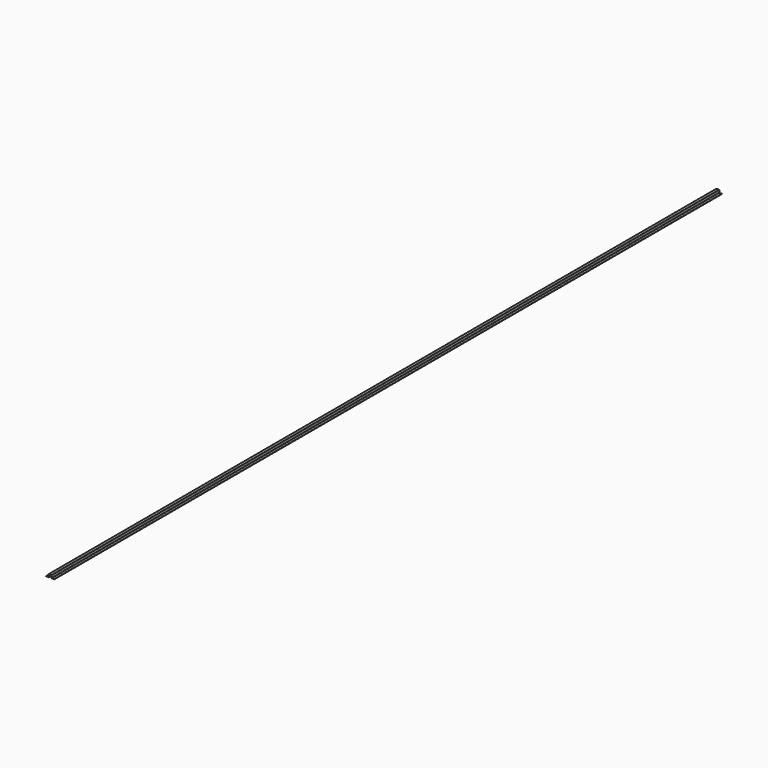
from build123d import *

# Parameters (mm, degrees)
F1_DEPTH = 8967.25


with BuildPart() as f1:
    # F0 (on Front) → F1 (new body)
    with BuildSketch(Plane.XZ):
        with BuildLine():
            Line((0, 3.175), (0, 0))
            Line((0, 0), (29.25, 0))
            ThreePointArc((29.25, 0), (31.017767, 0.732233), (31.75, 2.5))
            Line((31.75, 2.5), (31.75, 26.075))
            ThreePointArc((31.75, 26.075), (32.482233, 27.842767), (34.25, 28.575))
            Line((34.25, 28.575), (54.65, 28.575))
            ThreePointArc((54.65, 28.575), (56.417767, 27.842767), (57.15, 26.075))
            Line((57.15, 26.075), (57.15, 2.5))
            ThreePointArc((57.15, 2.5), (57.882233, 0.732233), (59.65, 0))
            Line((59.65, 0), (88.9, 0))
            Line((88.9, 0), (88.9, 3.175))
            Line((88.9, 3.175), (62.825, 3.175))
            ThreePointArc((62.825, 3.175), (61.057233, 3.907233), (60.325, 5.675))
            Line((60.325, 5.675), (60.325, 29.25))
            ThreePointArc((60.325, 29.25), (59.592767, 31.017767), (57.825, 31.75))
            Line((57.825, 31.75), (31.075, 31.75))
            ThreePointArc((31.075, 31.75), (29.307233, 31.017767), (28.575, 29.25))
            Line((28.575, 29.25), (28.575, 5.675))
            ThreePointArc((28.575, 5.675), (27.842767, 3.907233), (26.075, 3.175))
            Line((26.075, 3.175), (0, 3.175))
        make_face()
    extrude(amount=F1_DEPTH)


solid = f1.part
